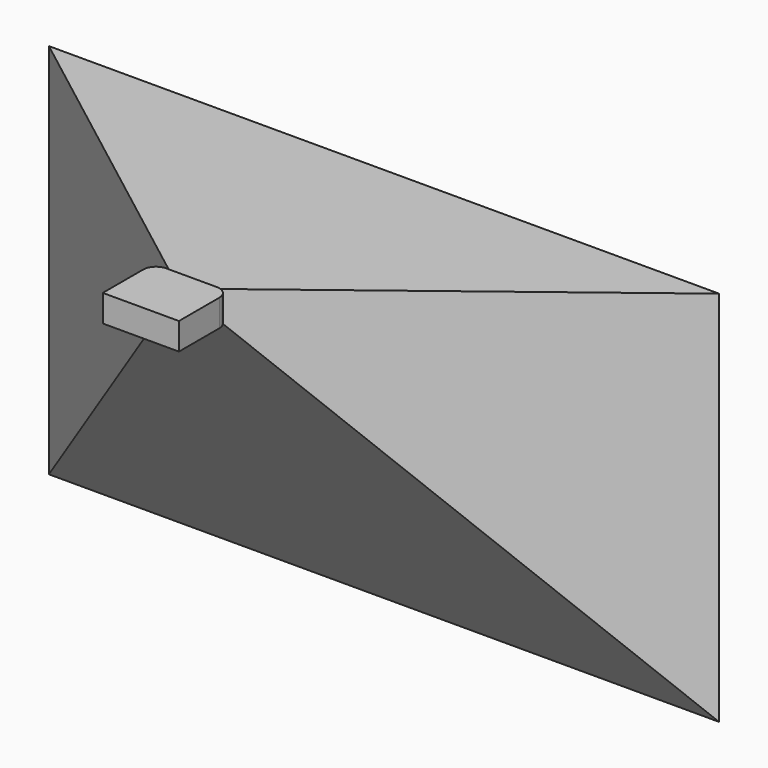
from build123d import *

# Parameters (mm, degrees)
F0_W     = 297
F0_H     = 247
F1_DEPTH = 52.5
F4_R     = 50
F7_W     = 2613.333334
F7_H     = 1470


with BuildPart() as f1:
    # F0 (on Top) → F1 (new body, symmetric)
    with BuildSketch(Plane.XY):
        with Locations((49.5, -123.5)):
            Rectangle(F0_W, F0_H)
    extrude(amount=F1_DEPTH, both=True)

    # F2 (on Right) → F3 (revolve)
    with BuildSketch(Plane.YZ):
        with BuildLine():
            Line((0, 42.5), (0, 0))
            Line((0, 0), (7.294264, 0))
            ThreePointArc((7.294264, 0), (5.964807, 19.926611), (2, 39.5))
            Line((2, 39.5), (10, 39.5))
            Line((10, 39.5), (10, 42.5))
            Line((10, 42.5), (0, 42.5))
        make_face()
    revolve(axis=Axis((0, -134.959865, 0), (0, -1, 0)))

    # F4
    f4_edges = [f1.edges().sort_by_distance(p)[0] for p in [
        (198, 0, 0),
        (-99, 0, 0),
    ]]
    fillet(f4_edges, radius=F4_R)


with BuildPart() as f8:
    # F7 (on face) → F8 section 0
    with BuildSketch(Plane(origin=(0, 1000, 0), x_dir=(-1, 0, 0), z_dir=(0, 1, 0)), mode=Mode.PRIVATE) as f8_s0:
        with Locations((0, -735)):
            Rectangle(F7_W, F7_H)
    loft([f8_s0.sketch, Vertex(0, 1, -1.47)])


solid = Compound([f1.part, f8.part])
